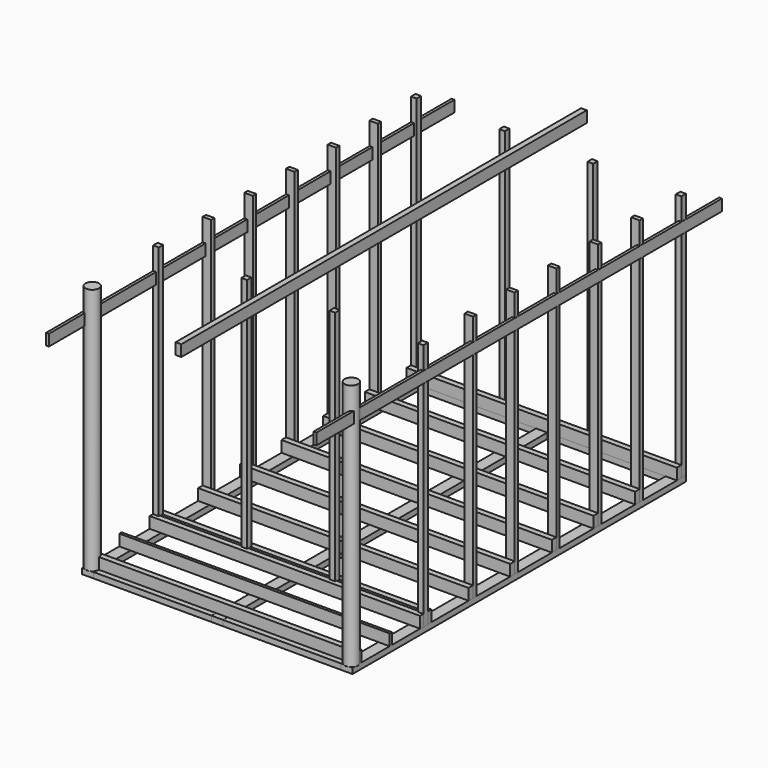
from build123d import *

# Parameters (mm, degrees)
F0_W           = 100
F0_H           = 3700
F1_DEPTH       = 50
F0_W_2         = 1048
F0_H_2         = 100
F2_W           = 50
F2_H           = 100
F3_DEPTH       = 1200
F2_W_2         = 25
F4_W           = 50
F4_H           = 50
F5_DEPTH       = 2200
F4_R           = 60
F6_W           = 75
F6_H           = 37.5
F7_DEPTH       = 2200
F8_W           = 26
F8_H           = 102
F9_DEPTH       = 3700.001
F9_DEPTH_BACK  = 10.001
F10_W          = 25
F10_H          = 100
F11_DEPTH      = 4100
F11_DEPTH_BACK = 400
F10_W_2        = 50


with BuildPart() as f1:
    # F0 (on Top) → F1 (new body)
    with BuildSketch(Plane.XY):
        with Locations((-1150, 1850)):
            Rectangle(F0_W, F0_H)
    extrude(amount=F1_DEPTH)


with BuildPart() as f1b:
    # F0 (on Top) → F1, piece 2 (new body)
    with BuildSketch(Plane.XY):
        with Locations((-575, 50)):
            Rectangle(F0_W_2, F0_H_2)
    extrude(amount=F1_DEPTH)


with BuildPart() as f1c:
    # F0 (on Top) → F1, piece 3 (new body)
    with BuildSketch(Plane.XY):
        with Locations((0, 1850)):
            Rectangle(F0_W, F0_H)
    extrude(amount=F1_DEPTH)


with BuildPart() as f1d:
    # F0 (on Top) → F1, piece 4 (new body)
    with BuildSketch(Plane.XY):
        with Locations((575, 50)):
            Rectangle(F0_W_2, F0_H_2)
    extrude(amount=F1_DEPTH)


with BuildPart() as f1e:
    # F0 (on Top) → F1, piece 5 (new body)
    with BuildSketch(Plane.XY):
        with Locations((1150, 1850)):
            Rectangle(F0_W, F0_H)
    extrude(amount=F1_DEPTH)


with BuildPart() as f1f:
    # F0 (on Top) → F1, piece 6 (new body)
    with BuildSketch(Plane.XY):
        with Locations((575, 3650)):
            Rectangle(F0_W_2, F0_H_2)
    extrude(amount=F1_DEPTH)


with BuildPart() as f1g:
    # F0 (on Top) → F1, piece 7 (new body)
    with BuildSketch(Plane.XY):
        with Locations((-575, 3650)):
            Rectangle(F0_W_2, F0_H_2)
    extrude(amount=F1_DEPTH)


with BuildPart() as f3:
    # F2 (on Right) → F3 (new body, symmetric)
    with BuildSketch(Plane.YZ):
        with Locations((75, 100)):
            Rectangle(F2_W, F2_H)
    extrude(amount=F3_DEPTH, both=True)


with BuildPart() as f3b:
    # F2 (on Right) → F3, piece 2 (new body, symmetric)
    with BuildSketch(Plane.YZ):
        with Locations((425, 100)):
            Rectangle(F2_W_2, F2_H)
    extrude(amount=F3_DEPTH, both=True)


with BuildPart() as f3c:
    # F2 (on Right) → F3, piece 3 (new body, symmetric)
    with BuildSketch(Plane.YZ):
        with Locations((775, 100)):
            Rectangle(F2_W, F2_H)
    extrude(amount=F3_DEPTH, both=True)


with BuildPart() as f3d:
    # F2 (on Right) → F3, piece 4 (new body, symmetric)
    with BuildSketch(Plane.YZ):
        with Locations((850, 100)):
            Rectangle(F2_W, F2_H)
    extrude(amount=F3_DEPTH, both=True)


with BuildPart() as f3e:
    # F2 (on Right) → F3, piece 5 (new body, symmetric)
    with BuildSketch(Plane.YZ):
        with Locations((1312.5, 100)):
            Rectangle(F2_W, F2_H)
    extrude(amount=F3_DEPTH, both=True)


with BuildPart() as f3f:
    # F2 (on Right) → F3, piece 6 (new body, symmetric)
    with BuildSketch(Plane.YZ):
        with Locations((1775, 100)):
            Rectangle(F2_W, F2_H)
    extrude(amount=F3_DEPTH, both=True)


with BuildPart() as f3g:
    # F2 (on Right) → F3, piece 7 (new body, symmetric)
    with BuildSketch(Plane.YZ):
        with Locations((2237.5, 100)):
            Rectangle(F2_W, F2_H)
    extrude(amount=F3_DEPTH, both=True)


with BuildPart() as f3h:
    # F2 (on Right) → F3, piece 8 (new body, symmetric)
    with BuildSketch(Plane.YZ):
        with Locations((2700, 100)):
            Rectangle(F2_W, F2_H)
    extrude(amount=F3_DEPTH, both=True)


with BuildPart() as f3i:
    # F2 (on Right) → F3, piece 9 (new body, symmetric)
    with BuildSketch(Plane.YZ):
        with Locations((3162.5, 100)):
            Rectangle(F2_W, F2_H)
    extrude(amount=F3_DEPTH, both=True)


with BuildPart() as f3j:
    # F2 (on Right) → F3, piece 10 (new body, symmetric)
    with BuildSketch(Plane.YZ):
        with Locations((3625, 100)):
            Rectangle(F2_W, F2_H)
    extrude(amount=F3_DEPTH, both=True)


with BuildPart() as f5:
    # F4 (on face) → F5 (new body)
    with BuildSketch(Plane.XY.offset(50)):
        with Locations((-1175, 3675)):
            Rectangle(F4_W, F4_H)
    extrude(amount=F5_DEPTH)


with BuildPart() as f5b:
    # F4 (on face) → F5, piece 2 (new body)
    with BuildSketch(Plane.XY.offset(50)):
        with Locations((1175, 3675)):
            Rectangle(F4_W, F4_H)
    extrude(amount=F5_DEPTH)


with BuildPart() as f5c:
    # F4 (on face) → F5, piece 3 (new body)
    with BuildSketch(Plane.XY.offset(50)):
        with Locations((1175, 812.5)):
            Rectangle(F4_W, F4_H)
    extrude(amount=F5_DEPTH)


with BuildPart() as f5d:
    # F4 (on face) → F5, piece 4 (new body)
    with BuildSketch(Plane.XY.offset(50)):
        with Locations((-1175, 812.5)):
            Rectangle(F4_W, F4_H)
    extrude(amount=F5_DEPTH)


with BuildPart() as f5e:
    # F4 (on face) → F5, piece 5 (new body)
    with BuildSketch(Plane.XY.offset(50)):
        with Locations((-391.6666666667, 3675)):
            Rectangle(F4_W, F4_H)
    extrude(amount=F5_DEPTH)


with BuildPart() as f5f:
    # F4 (on face) → F5, piece 6 (new body)
    with BuildSketch(Plane.XY.offset(50)):
        with Locations((391.6666666667, 3675)):
            Rectangle(F4_W, F4_H)
    extrude(amount=F5_DEPTH)


with BuildPart() as f5g:
    # F4 (on face) → F5, piece 7 (new body)
    with BuildSketch(Plane.XY.offset(50)):
        with Locations((-391.6666666667, 812.5)):
            Rectangle(F4_W, F4_H)
    extrude(amount=F5_DEPTH)


with BuildPart() as f5h:
    # F4 (on face) → F5, piece 8 (new body)
    with BuildSketch(Plane.XY.offset(50)):
        with Locations((391.6666666667, 812.5)):
            Rectangle(F4_W, F4_H)
    extrude(amount=F5_DEPTH)


with BuildPart() as f5i:
    # F4 (on face) → F5, piece 9 (new body)
    with BuildSketch(Plane.XY.offset(50)):
        with Locations((-1150, 50)):
            Circle(F4_R)
    extrude(amount=F5_DEPTH)


with BuildPart() as f5j:
    # F4 (on face) → F5, piece 10 (new body)
    with BuildSketch(Plane.XY.offset(50)):
        with Locations((1150, 50)):
            Circle(F4_R)
    extrude(amount=F5_DEPTH)


with BuildPart() as f7:
    # F6 (on face) → F7 (new body)
    with BuildSketch(Plane.XY.offset(50)):
        with Locations((-1162.5, 3206.25)):
            Rectangle(F6_W, F6_H)
    extrude(amount=F7_DEPTH)


with BuildPart() as f7b:
    # F6 (on face) → F7, piece 2 (new body)
    with BuildSketch(Plane.XY.offset(50)):
        with Locations((-1162.5, 2743.75)):
            Rectangle(F6_W, F6_H)
    extrude(amount=F7_DEPTH)


with BuildPart() as f7c:
    # F6 (on face) → F7, piece 3 (new body)
    with BuildSketch(Plane.XY.offset(50)):
        with Locations((-1162.5, 2281.25)):
            Rectangle(F6_W, F6_H)
    extrude(amount=F7_DEPTH)


with BuildPart() as f7d:
    # F6 (on face) → F7, piece 4 (new body)
    with BuildSketch(Plane.XY.offset(50)):
        with Locations((-1162.5, 1818.75)):
            Rectangle(F6_W, F6_H)
    extrude(amount=F7_DEPTH)


with BuildPart() as f7e:
    # F6 (on face) → F7, piece 5 (new body)
    with BuildSketch(Plane.XY.offset(50)):
        with Locations((-1162.5, 1356.25)):
            Rectangle(F6_W, F6_H)
    extrude(amount=F7_DEPTH)


with BuildPart() as f7f:
    # F6 (on face) → F7, piece 6 (new body)
    with BuildSketch(Plane.XY.offset(50)):
        with Locations((1162.5, 3206.25)):
            Rectangle(F6_W, F6_H)
    extrude(amount=F7_DEPTH)


with BuildPart() as f7g:
    # F6 (on face) → F7, piece 7 (new body)
    with BuildSketch(Plane.XY.offset(50)):
        with Locations((1162.5, 2743.75)):
            Rectangle(F6_W, F6_H)
    extrude(amount=F7_DEPTH)


with BuildPart() as f7h:
    # F6 (on face) → F7, piece 8 (new body)
    with BuildSketch(Plane.XY.offset(50)):
        with Locations((1162.5, 2281.25)):
            Rectangle(F6_W, F6_H)
    extrude(amount=F7_DEPTH)


with BuildPart() as f7i:
    # F6 (on face) → F7, piece 9 (new body)
    with BuildSketch(Plane.XY.offset(50)):
        with Locations((1162.5, 1818.75)):
            Rectangle(F6_W, F6_H)
    extrude(amount=F7_DEPTH)


with BuildPart() as f7j:
    # F6 (on face) → F7, piece 10 (new body)
    with BuildSketch(Plane.XY.offset(50)):
        with Locations((1162.5, 1356.25)):
            Rectangle(F6_W, F6_H)
    extrude(amount=F7_DEPTH)


with BuildPart() as f9_tool:
    # F8 (on Front) → F9 (new body, two sides)
    with BuildSketch(Plane.XZ) as f9_sk:
        with Locations((-1187, 2000)):
            Rectangle(F8_W, F8_H)
        with Locations((1187, 2000)):
            Rectangle(F8_W, F8_H)
    extrude(amount=-F9_DEPTH)
    extrude(f9_sk.sketch, amount=F9_DEPTH_BACK)


with BuildPart() as f5_1:
    add(f5.part)

    # F9: cut by f9_tool
    add(f9_tool.part, mode=Mode.SUBTRACT)


with BuildPart() as f5b_1:
    add(f5b.part)

    # F9: cut by f9_tool
    add(f9_tool.part, mode=Mode.SUBTRACT)


with BuildPart() as f5c_1:
    add(f5c.part)

    # F9: cut by f9_tool
    add(f9_tool.part, mode=Mode.SUBTRACT)


with BuildPart() as f5d_1:
    add(f5d.part)

    # F9: cut by f9_tool
    add(f9_tool.part, mode=Mode.SUBTRACT)


with BuildPart() as f5i_1:
    add(f5i.part)

    # F9: cut by f9_tool
    add(f9_tool.part, mode=Mode.SUBTRACT)


with BuildPart() as f5j_1:
    add(f5j.part)

    # F9: cut by f9_tool
    add(f9_tool.part, mode=Mode.SUBTRACT)


with BuildPart() as f7_1:
    add(f7.part)

    # F9: cut by f9_tool
    add(f9_tool.part, mode=Mode.SUBTRACT)


with BuildPart() as f7b_1:
    add(f7b.part)

    # F9: cut by f9_tool
    add(f9_tool.part, mode=Mode.SUBTRACT)


with BuildPart() as f7c_1:
    add(f7c.part)

    # F9: cut by f9_tool
    add(f9_tool.part, mode=Mode.SUBTRACT)


with BuildPart() as f7d_1:
    add(f7d.part)

    # F9: cut by f9_tool
    add(f9_tool.part, mode=Mode.SUBTRACT)


with BuildPart() as f7e_1:
    add(f7e.part)

    # F9: cut by f9_tool
    add(f9_tool.part, mode=Mode.SUBTRACT)


with BuildPart() as f7f_1:
    add(f7f.part)

    # F9: cut by f9_tool
    add(f9_tool.part, mode=Mode.SUBTRACT)


with BuildPart() as f7g_1:
    add(f7g.part)

    # F9: cut by f9_tool
    add(f9_tool.part, mode=Mode.SUBTRACT)


with BuildPart() as f7h_1:
    add(f7h.part)

    # F9: cut by f9_tool
    add(f9_tool.part, mode=Mode.SUBTRACT)


with BuildPart() as f7i_1:
    add(f7i.part)

    # F9: cut by f9_tool
    add(f9_tool.part, mode=Mode.SUBTRACT)


with BuildPart() as f7j_1:
    add(f7j.part)

    # F9: cut by f9_tool
    add(f9_tool.part, mode=Mode.SUBTRACT)


with BuildPart() as f11:
    # F10 (on Front) → F11 (new body, two sides)
    with BuildSketch(Plane.XZ) as f11_sk:
        with Locations((-1187.5, 2000)):
            Rectangle(F10_W, F10_H)
    extrude(amount=-F11_DEPTH)
    extrude(f11_sk.sketch, amount=F11_DEPTH_BACK)


with BuildPart() as f11b:
    # F10 (on Front) → F11, piece 2 (new body, two sides)
    with BuildSketch(Plane.XZ) as f11_2_sk:
        with Locations((1187.5, 2000)):
            Rectangle(F10_W, F10_H)
    extrude(amount=-F11_DEPTH)
    extrude(f11_2_sk.sketch, amount=F11_DEPTH_BACK)


with BuildPart() as f11c:
    # F10 (on Front) → F11, piece 3 (new body, two sides)
    with BuildSketch(Plane.XZ) as f11_3_sk:
        with Locations((-25, 2300)):
            Rectangle(F10_W_2, F10_H)
    extrude(amount=-F11_DEPTH)
    extrude(f11_3_sk.sketch, amount=F11_DEPTH_BACK)


solid = Compound([f1.part, f1b.part, f1c.part, f1d.part, f1e.part, f1f.part, f1g.part, f3.part, f3b.part, f3c.part, f3d.part, f3e.part, f3f.part, f3g.part, f3h.part, f3i.part, f3j.part, f5e.part, f5f.part, f5g.part, f5h.part, f5_1.part, f5b_1.part, f5c_1.part, f5d_1.part, f5i_1.part, f5j_1.part, f7_1.part, f7b_1.part, f7c_1.part, f7d_1.part, f7e_1.part, f7f_1.part, f7g_1.part, f7h_1.part, f7i_1.part, f7j_1.part, f11.part, f11b.part, f11c.part])
